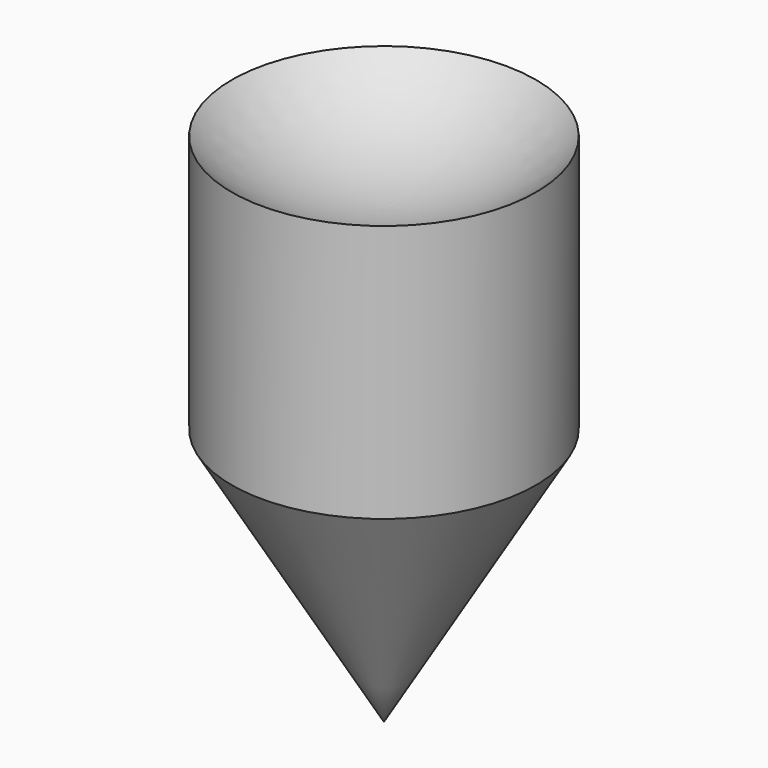
from build123d import *


with BuildPart() as f1:
    # F0 (on Right) → F1 (revolve)
    with BuildSketch(Plane.YZ):
        with BuildLine():
            Line((0, 54.32049), (0, 0))
            Line((0, 0), (18.274368, 30.970245))
            Line((18.274368, 30.970245), (18.274368, 36.54049))
            Line((18.274368, 36.54049), (18.274368, 61.94049))
            ThreePointArc((18.274368, 61.94049), (9.899709, 56.301795), (0, 54.32049))
        make_face()
    revolve(axis=Axis((0, 0, 27.160245), (0, 0, 1)))


solid = f1.part
